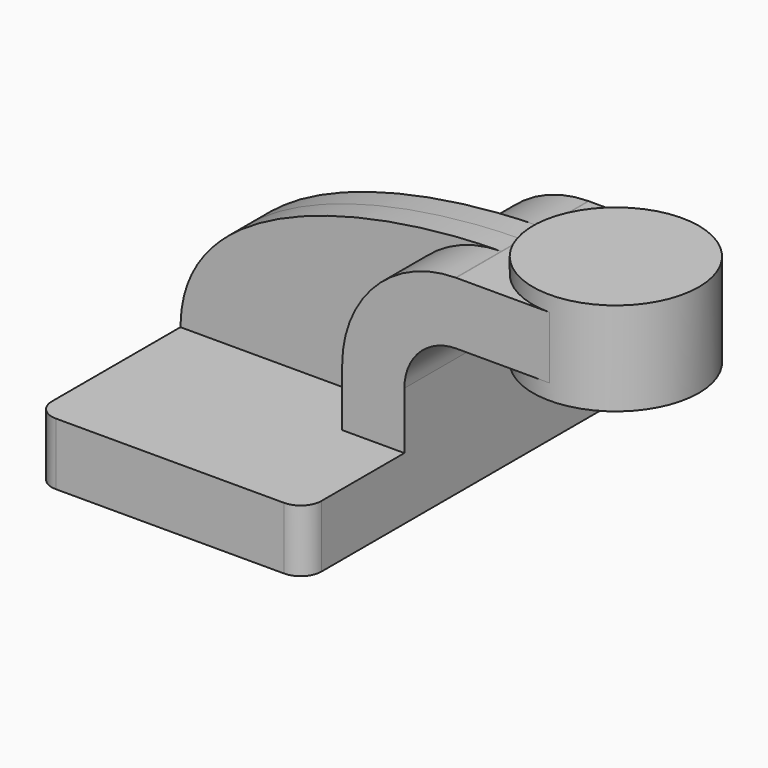
from build123d import *

# Parameters (mm, degrees)
F1_DEPTH = 63.5
F0_W     = 25.4
F0_H     = 19.05
F2_DEPTH = 25.4
F3_DEPTH = 7.9375
F5_R     = 6.35


with BuildPart() as f1:
    # F0 (on Front) → F1 (new body, symmetric)
    with BuildSketch(Plane.XZ):
        Polygon((22.225, 9.525), (-41.275, 9.525), (-41.275, -9.525), (41.275, -9.525), (41.275, 9.525), align=None)
    extrude(amount=F1_DEPTH, both=True)

    # F0 (on Front) → F2 (join, symmetric)
    with BuildSketch(Plane.XZ):
        with BuildLine():
            Line((22.225, 27.0002), (22.225, 9.525))
            Line((22.225, 9.525), (41.275, 9.525))
            Line((41.275, 9.525), (41.275, 27.0002))
            ThreePointArc((41.275, 27.0002), (45.9246798487, 38.2255201513), (57.15, 42.8752))
            Line((57.15, 42.8752), (60.325, 42.8752))
            Line((60.325, 42.8752), (60.325, 61.9252))
            Line((60.325, 61.9252), (57.15, 61.9252))
            ThreePointArc((57.15, 61.9252), (57.0455916297, 61.9250439351), (56.9411841925, 61.9245757419))
            ThreePointArc((56.9411841925, 61.9245757419), (32.3805781549, 51.6219661117), (22.225, 27.0002))
        make_face()
        with Locations((73.025, 52.4002)):
            Rectangle(F0_W, F0_H)
    extrude(amount=F2_DEPTH, both=True)

    # F0 (on Front) → F3 (join, symmetric)
    with BuildSketch(Plane.XZ):
        with BuildLine():
            add(Edge.make_bspline(
                [(-41.275, 9.525), (-41.1011968465, 50.1983393078), (21.0140626071, 61.7950971069), (56.9411841925, 61.9245757419)],
                knots=[0, 0, 0, 0, 111.2886193757, 111.2886193757, 111.2886193757, 111.2886193757], degree=3))
            Line((-41.275, 9.525), (22.225, 9.525))
            Line((22.225, 9.525), (22.225, 27.0002))
            ThreePointArc((22.225, 27.0002), (32.3805781549, 51.6219661117), (56.9411841925, 61.9245757419))
        make_face()
    extrude(amount=F3_DEPTH, both=True)

    # F0 (on Front) → F4 (revolve)
    with BuildSketch(Plane.XZ):
        Polygon((85.725, 66.675), (85.725, 61.9252), (85.725, 42.8752), (85.725, 38.1), (111.125, 38.1), (111.125, 66.675), align=None)
    revolve(axis=Axis((85.725, 0, 54.7751), (0, 0, 1)))

    # F5
    f5_edges = [f1.edges().sort_by_distance(p)[0] for p in [
        (41.275, -63.5, 0),
        (-41.275, -63.5, 0),
        (-41.275, 63.5, 0),
        (41.275, 63.5, 0),
    ]]
    fillet(f5_edges, radius=F5_R)


solid = f1.part
